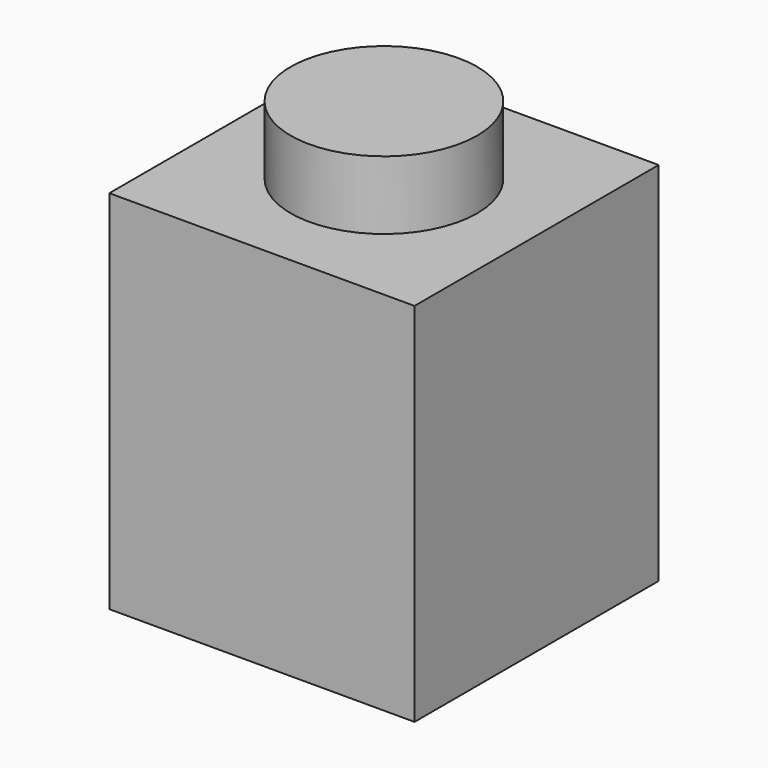
from build123d import *

# Parameters (mm, degrees)
F0_W     = 7.9375
F0_H     = 7.9375
F1_DEPTH = 9.525
F2_R     = 2.4257
F3_DEPTH = 1.778
F4_W     = 5.7531
F4_H     = 5.7531
F5_DEPTH = 8.4328


with BuildPart() as f1:
    # F0 (on Top) → F1 (new body)
    with BuildSketch(Plane.XY):
        with Locations((-18.788291, 11.73261)):
            Rectangle(F0_W, F0_H)
    extrude(amount=F1_DEPTH)

    # F2 (on face) → F3 (join)
    with BuildSketch(Plane.XY.offset(9.525)):
        with Locations((-18.794646, 11.738965)):
            Circle(F2_R)
    extrude(amount=F3_DEPTH)

    # F4 (on face) → F5 (cut)
    with BuildSketch(Plane(origin=(0, 0, 0), x_dir=(1, 0, 0), z_dir=(0, 0, -1))):
        with Locations((-18.788291, -11.73261)):
            Rectangle(F4_W, F4_H)
    extrude(amount=-F5_DEPTH, mode=Mode.SUBTRACT)


solid = f1.part
